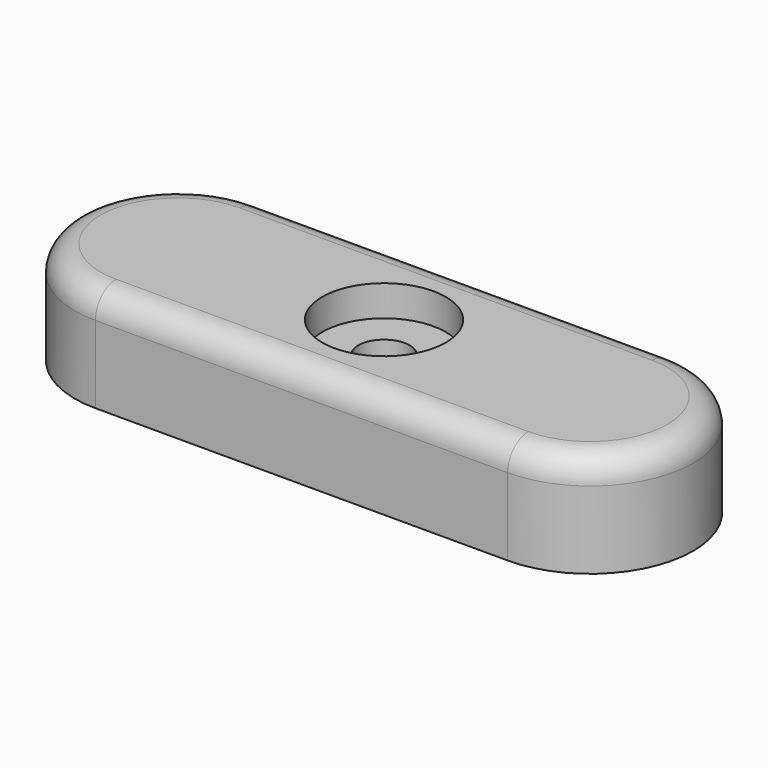
from build123d import *

# Parameters (mm, degrees)
F0_W           = 50.8
F0_H           = 25.4
F1_DEPTH       = 12.7
F3_D           = 6.35
F3_CBORE_D     = 15.24
F3_CBORE_DEPTH = 3.81
F4_R           = 3.175


with BuildPart() as f1:
    # F0 (on Top) → F1 (new body)
    with BuildSketch(Plane.XY):
        Rectangle(F0_W, F0_H)
        with BuildLine():
            Line((-25.4, -12.7), (-25.4, 12.7))
            ThreePointArc((-25.4, 12.7), (-38.1, 0), (-25.4, -12.7))
        make_face()
        with BuildLine():
            ThreePointArc((25.4, -12.7), (38.1, 0), (25.4, 12.7))
            Line((25.4, 12.7), (25.4, -12.7))
        make_face()
    extrude(amount=F1_DEPTH)

    # F3 (through all)
    with Locations(Plane.XY.offset(12.7)):
        with Locations((0, 0)):
            CounterBoreHole(F3_D / 2, F3_CBORE_D / 2, F3_CBORE_DEPTH)

    # F4
    f4_edges = [f1.edges().sort_by_distance(p)[0] for p in [
        (-38.1, 0, 12.7),
    ]]
    fillet(f4_edges, radius=F4_R)


solid = f1.part
